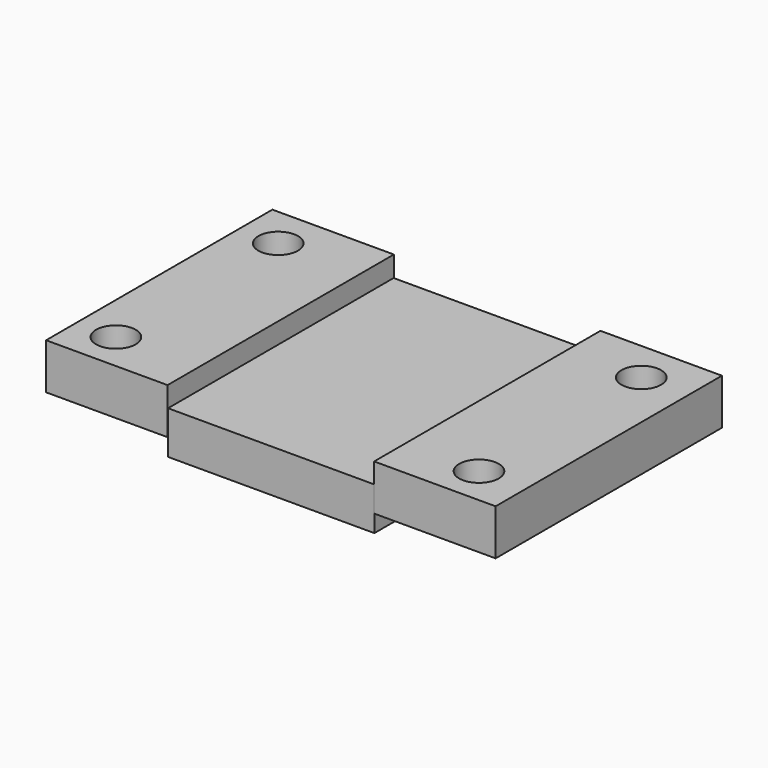
from build123d import *

# Parameters (mm, degrees)
F0_W     = 35.280001
F0_H     = 82.16
F0_R     = 5.7531
F0_R_2   = 5.75
F0_W_2   = 35.2806
F1_DEPTH = 13.32
F2_W     = 59.93694
F2_H     = 81.903108
F3_DEPTH = 5.08
F4_W     = 59.93694
F4_H     = 81.903108
F5_DEPTH = 7.366


with BuildPart() as f1:
    # F0 (on Top) → F1 (new body)
    with BuildSketch(Plane.XY):
        with Locations((-47.639923, 0)):
            Rectangle(F0_W, F0_H)
        with Locations((-53.89778, -29.964609)):
            Circle(F0_R, mode=Mode.SUBTRACT)
        with Locations((-53.89778, 28.958148)):
            Circle(F0_R_2, mode=Mode.SUBTRACT)
        with Locations((47.639624, 0)):
            Rectangle(F0_W_2, F0_H)
        with Locations((51.5544, -29.964609)):
            Circle(F0_R, mode=Mode.SUBTRACT)
        with Locations((51.5544, 28.958148)):
            Circle(F0_R, mode=Mode.SUBTRACT)
    extrude(amount=F1_DEPTH)


with BuildPart() as f3:
    # F2 (on Top) → F3 (new body)
    with BuildSketch(Plane.XY):
        Rectangle(F2_W, F2_H)
    extrude(amount=-F3_DEPTH)

    # F4 (on face) → F5 (join)
    with BuildSketch(Plane.XY):
        Rectangle(F4_W, F4_H)
    extrude(amount=F5_DEPTH)


solid = Compound([f1.part, f3.part])
